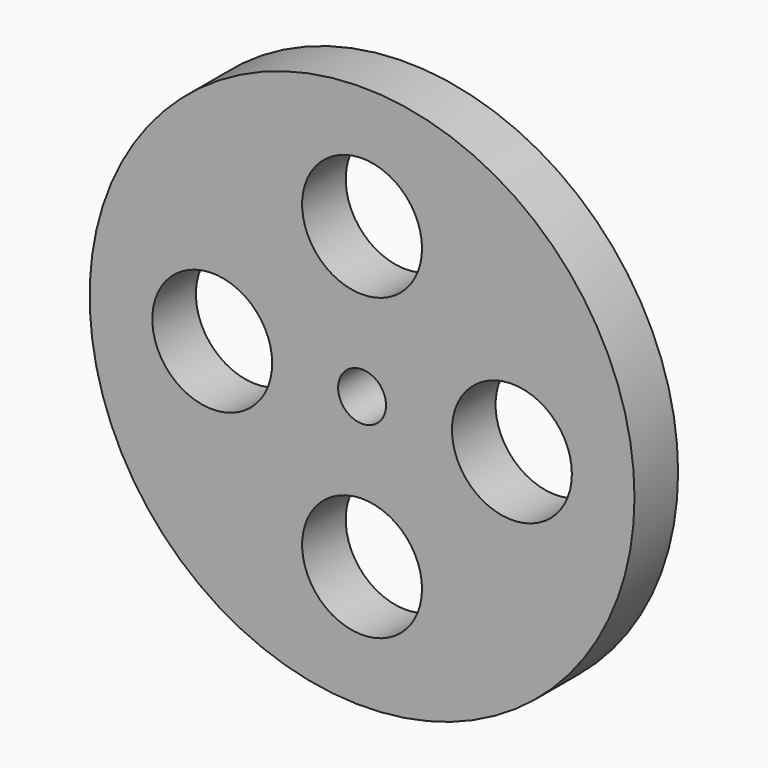
from build123d import *

# Parameters (mm, degrees)
F0_R     = 31.75
F0_R_2   = 6.985
F0_R_3   = 2.794
F1_DEPTH = 6.35
F2_DEPTH = 2.54


with BuildPart() as f1:
    # F0 (on Front) → F1 (new body)
    with BuildSketch(Plane.XZ):
        Circle(F0_R)
        with Locations((0, -17.4625)):
            Circle(F0_R_2, mode=Mode.SUBTRACT)
        with Locations((-17.4625, 0)):
            Circle(F0_R_2, mode=Mode.SUBTRACT)
        Circle(F0_R_3, mode=Mode.SUBTRACT)
        with Locations((17.4625, 0)):
            Circle(F0_R_2, mode=Mode.SUBTRACT)
        with Locations((0, 17.4625)):
            Circle(F0_R_2, mode=Mode.SUBTRACT)
    extrude(amount=F1_DEPTH)


with BuildPart() as f2:
    # F0 (on Front) → F2 (new body)
    with BuildSketch(Plane.XZ):
        Circle(F0_R_3)
    extrude(amount=-F2_DEPTH)


solid = Compound([f1.part, f2.part])
